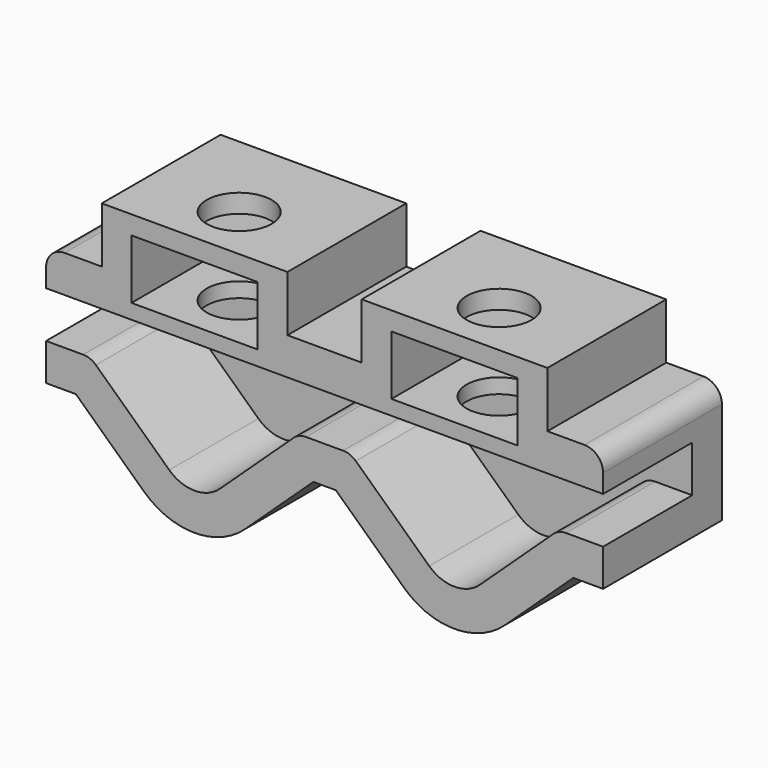
from build123d import *

# Parameters (mm, degrees)
F1_DEPTH      = 6
F3_DEPTH      = 2
F6_DEPTH      = 3.2
F7_R          = 1.75
F8_DEPTH      = 4.2
F8_DEPTH_BACK = 0.8


with BuildPart() as f1:
    # F0 (on Front) → F1 (new body)
    with BuildSketch(Plane.XZ):
        with BuildLine():
            Line((15, 0), (13, 0))
            ThreePointArc((13, 0), (12.6330653649, -0.0697532727), (12.3173205132, -0.2692820528))
            Line((12.3173205132, -0.2692820528), (8.3653589736, -3.9614358943))
            ThreePointArc((8.3653589736, -3.9614358943), (7, -4.5), (5.6346410264, -3.9614358943))
            Line((5.6346410264, -3.9614358943), (1.6826794868, -0.2692820528))
            ThreePointArc((1.6826794868, -0.2692820528), (1.3669346351, -0.0697532727), (1, 0))
            Line((1, 0), (0, 0))
            Line((0, 0), (0, -2))
            Line((0, -2), (0.6055512755, -2))
            Line((0.6055512755, -2), (4.2692820528, -5.4228717887))
            ThreePointArc((4.2692820528, -5.4228717887), (7, -6.5), (9.7307179472, -5.4228717887))
            Line((9.7307179472, -5.4228717887), (13.3944487245, -2))
            Line((13.3944487245, -2), (15, -2))
            Line((15, -2), (15, 0))
        make_face()
    extrude(amount=F1_DEPTH)



with BuildPart() as f1b:
    # F0 (on Front) → F1, piece 2 (new body)
    with BuildSketch(Plane.XZ):
        with BuildLine():
            Line((0, 4.5), (0, 2.5))
            Line((0, 2.5), (1, 2.5))
            Line((1, 2.5), (13, 2.5))
            Line((13, 2.5), (15, 2.5))
            Line((15, 2.5), (15, 3.5))
            ThreePointArc((15, 3.5), (14.7071067812, 4.2071067812), (14, 4.5))
            Line((14, 4.5), (12, 4.5))
            Line((12, 4.5), (12, 7.5))
            Line((12, 7.5), (2, 7.5))
            Line((2, 7.5), (2, 4.5))
            Line((2, 4.5), (0, 4.5))
        make_face()
    extrude(amount=F1_DEPTH)


with BuildPart() as f1_1:
    add(f1.part)

    add(f1b.part)  # F3 merges F1b
    # F2 (on Front) → F3 (join)
    with BuildSketch(Plane.XZ):
        with BuildLine():
            Line((13.3944487245, -2), (15, -2))
            Line((15, -2), (15, 3.5))
            ThreePointArc((15, 3.5), (14.7071067812, 4.2071067812), (14, 4.5))
            Line((14, 4.5), (12, 4.5))
            Line((12, 4.5), (12, 7.5))
            Line((12, 7.5), (2, 7.5))
            Line((2, 7.5), (2, 4.5))
            Line((2, 4.5), (0, 4.5))
            Line((0, 4.5), (0, -2))
            Line((0, -2), (0.6055512755, -2))
            Line((0.6055512755, -2), (4.2692820528, -5.4228717887))
            ThreePointArc((4.2692820528, -5.4228717887), (7, -6.5), (9.7307179472, -5.4228717887))
            Line((9.7307179472, -5.4228717887), (13.3944487245, -2))
        make_face()
    extrude(amount=-F3_DEPTH)

    # F5 (on offset) → F6 (cut)
    with BuildSketch(Plane(origin=(0, 0, 3.3), x_dir=(1, 0, 0), z_dir=(0, 0, -1))):
        Polygon((7, -0.9259818305), (10.4, 1.0370090848), (10.4, 4.9629909152), (10.4, 11.3659846154), (3.6, 11.3659846154), (3.6, 4.9629909152), (3.6, 1.0370090848), align=None)
    extrude(amount=-F6_DEPTH, mode=Mode.SUBTRACT)

    # F7 (on face) → F8 (cut, two sides)
    with BuildSketch(Plane.XY.offset(3.3)) as f8_sk:
        with Locations((7, -3)):
            Circle(F7_R)
    extrude(amount=F8_DEPTH, mode=Mode.SUBTRACT)
    extrude(f8_sk.sketch, amount=-F8_DEPTH_BACK, mode=Mode.SUBTRACT)

    # F9: F1 across plane


with BuildPart() as f1_2:
    add(f1_1.part)
    add(f1_1.part.mirror(Plane.YZ))


solid = f1_2.part
